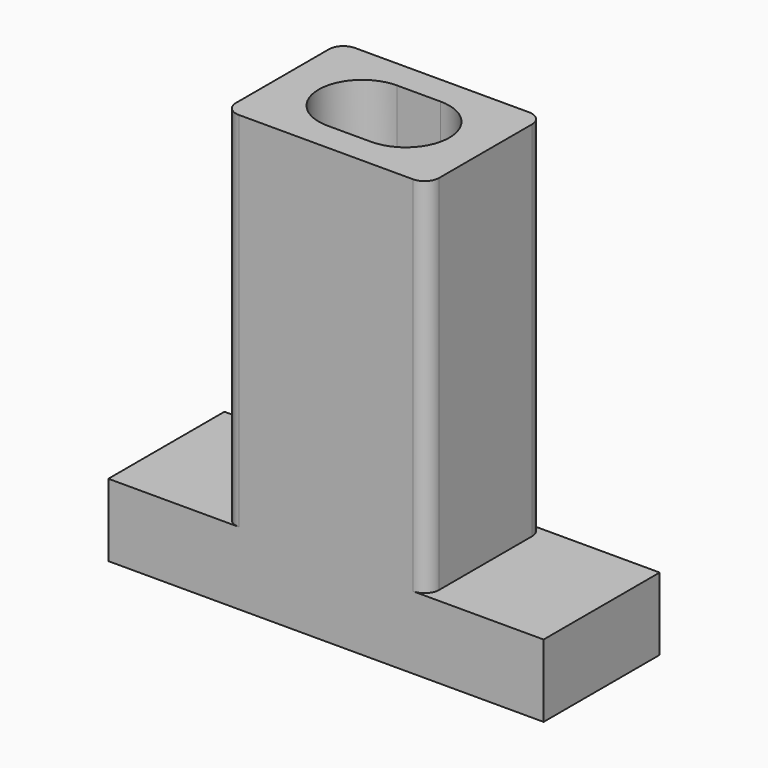
from build123d import *

# Parameters (mm, degrees)
SKETCH_W           = 30
SKETCH_H           = 10
PAD_DEPTH          = 30
POCKET_DEPTH       = 4
SKETCH003_W        = 15
SKETCH003_H        = 10
POCKET001_DEPTH    = 25
POLARPATTERN_COUNT = 2
FILLET_R           = 1


with BuildPart() as part:
    # Sketch → Pad (new body)
    with BuildSketch(Plane.XY):
        Rectangle(SKETCH_W, SKETCH_H)
    extrude(amount=PAD_DEPTH)

    # Sketch001 → Pocket (cut)
    with BuildSketch(Plane.XY.offset(30)):
        with BuildLine():
            ThreePointArc((-1.5, 3), (-4.5, 0), (-1.5, -3))
            Line((-1.5, -3), (1.5, -3))
            ThreePointArc((1.5, -3), (4.5, 0), (1.5, 3))
            Line((-1.5, 3), (1.5, 3))
        make_face()
    extrude(amount=-POCKET_DEPTH, mode=Mode.SUBTRACT)

    # Sketch003 → Pocket001 (cut)
    with BuildSketch(Plane.XY.offset(30)):
        with Locations((14.5, 0)):
            Rectangle(SKETCH003_W, SKETCH003_H)
    pocket001 = extrude(amount=-POCKET001_DEPTH, mode=Mode.SUBTRACT)

    # PolarPattern: Pocket001 ×2 about axis
    polarpattern_axis = Axis((0, 0, 30), (0, 0, 1))
    for i in range(1, POLARPATTERN_COUNT):
        add(pocket001.rotate(polarpattern_axis, i * 360 / POLARPATTERN_COUNT), mode=Mode.SUBTRACT)

    # Fillet
    fillet_edges = [part.edges().sort_by_distance(p)[0] for p in [
        (-7, 5, 17.5),
        (-7, -5, 17.5),
        (7, -5, 17.5),
        (7, 5, 17.5),
    ]]
    fillet(fillet_edges, radius=FILLET_R)


solid = part.part
